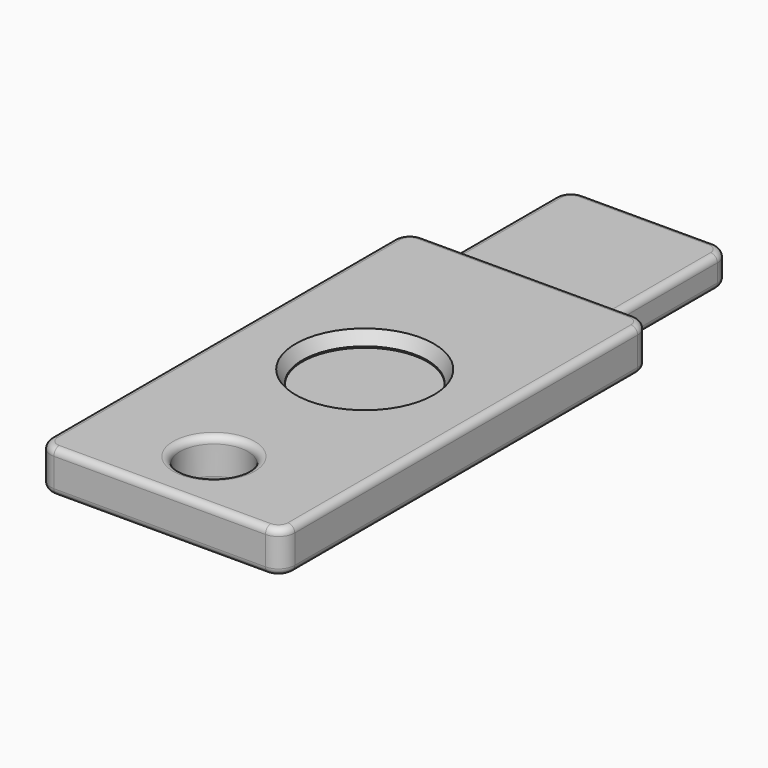
from build123d import *

# Parameters (mm, degrees)
F0_R     = 2.5
F0_R_2   = 4.6
F1_DEPTH = 3.1
F2_DEPTH = 2.3
F3_DEPTH = 2.1
F4_SIZE2 = 0.5
F4_SIZE  = 0.9
F5_R     = 0.5


with BuildPart() as f1:
    # F0 (on Top) → F1 (new body)
    with BuildSketch(Plane.XY):
        with BuildLine():
            ThreePointArc((0, 1.2), (0.3514718626, 0.3514718626), (1.2, 0))
            Line((1.2, 0), (16.8, 0))
            ThreePointArc((16.8, 0), (17.6485281374, 0.3514718626), (18, 1.2))
            Line((18, 1.2), (18, 32.8))
            ThreePointArc((18, 32.8), (17.6485281374, 33.6485281374), (16.8, 34))
            Line((16.8, 34), (15, 34))
            Line((15, 34), (3, 34))
            Line((3, 34), (1.2, 34))
            ThreePointArc((1.2, 34), (0.3514718626, 33.6485281374), (0, 32.8))
            Line((0, 32.8), (0, 1.2))
        make_face()
        with Locations((9, 5)):
            Circle(F0_R, mode=Mode.SUBTRACT)
        with Locations((9, 18.9)):
            Circle(F0_R_2, mode=Mode.SUBTRACT)
    extrude(amount=F1_DEPTH)

    # F0 (on Top) → F2 (join)
    with BuildSketch(Plane.XY):
        with BuildLine():
            Line((3, 43.9), (3, 34))
            Line((3, 34), (15, 34))
            Line((15, 34), (15, 43.9))
            ThreePointArc((15, 43.9), (14.6485281374, 44.7485281374), (13.8, 45.1))
            Line((13.8, 45.1), (4.2, 45.1))
            ThreePointArc((4.2, 45.1), (3.3514718626, 44.7485281374), (3, 43.9))
        make_face()
    extrude(amount=F2_DEPTH)

    # F4
    f4_edges = [f1.edges().sort_by_distance(p)[0] for p in [
        (4.4, 18.9, 3.1),
    ]]
    f4_side = f1.faces().sort_by_distance((4.4, 18.9, 1.55))[0]
    chamfer(f4_edges, length=F4_SIZE, length2=F4_SIZE2, reference=f4_side)

    # F5
    f5_edges = [f1.edges().sort_by_distance(p)[0] for p in [
        (0, 17, 3.1),
        (18, 17, 0),
        (6.5, 5, 3.1),
        (15, 38.95, 2.3),
        (6.5, 5, 0),
        (15, 38.95, 0),
    ]]
    fillet(f5_edges, radius=F5_R)


with BuildPart() as f3:
    # F0 (on Top) → F3 (new body)
    with BuildSketch(Plane.XY):
        with Locations((9, 18.9)):
            Circle(F0_R_2)
    extrude(amount=F3_DEPTH)


solid = Compound([f1.part, f3.part])
